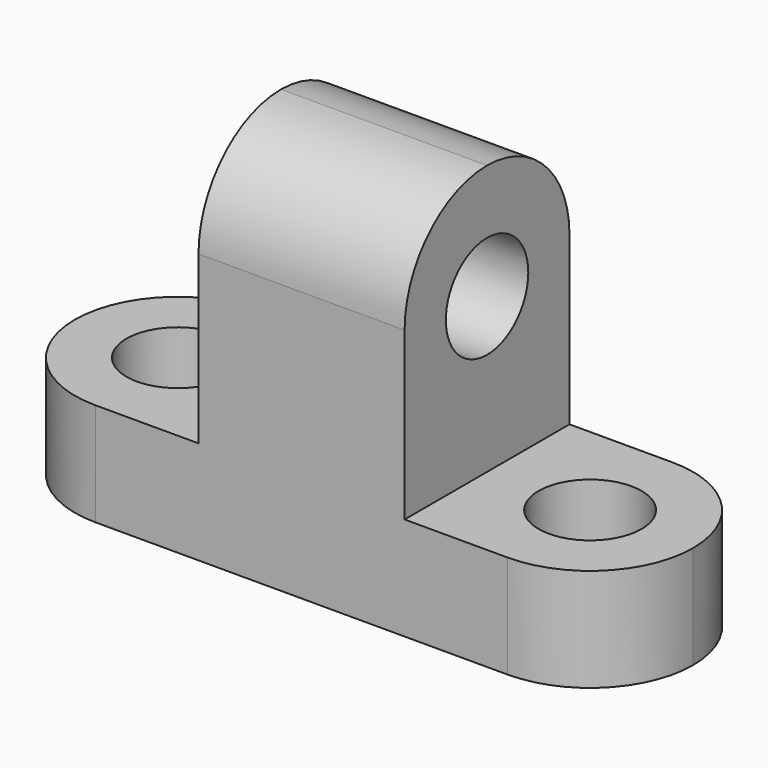
from build123d import *

# Parameters (mm, degrees)
F1_DEPTH = 25.4
F3_R     = 6.35
F2_R     = 6.35
F5_DEPTH = 25.4
F4_R     = 6.35
F6_DEPTH = 25.4


with BuildPart() as f1:
    # F0 (on Front) → F1 (new body)
    with BuildSketch(Plane.XZ):
        Polygon((0, 12.7), (0, 0), (76.2, 0), (76.2, 12.7), (50.8, 12.7), (50.8, 45.939504), (25.4, 45.939504), (25.4, 12.7), align=None)
    extrude(amount=F1_DEPTH)

    # F3 (on face) + F2 (on face) → F5 (cut)
    with BuildSketch(Plane.XY.offset(12.7)):
        with BuildLine():
            ThreePointArc((0, -12.7), (3.719744, -3.719744), (12.7, 0))
            Line((12.7, 0), (0, 0))
            Line((0, 0), (0, -12.7))
        make_face()
        with Locations((12.7, -12.7)):
            Circle(F3_R)
        with BuildLine():
            ThreePointArc((12.7, -25.4), (3.719744, -21.680256), (0, -12.7))
            Line((0, -12.7), (0, -25.4))
            Line((0, -25.4), (12.7, -25.4))
        make_face()
    with BuildSketch(Plane.XY.offset(12.7)):
        with Locations((63.5, -12.7)):
            Circle(F2_R)
        with BuildLine():
            ThreePointArc((63.5, 0), (72.480256, -3.719744), (76.2, -12.7))
            Line((76.2, -12.7), (76.2, 0))
            Line((76.2, 0), (63.5, 0))
        make_face()
        with BuildLine():
            ThreePointArc((76.2, -12.7), (72.480256, -21.680256), (63.5, -25.4))
            Line((63.5, -25.4), (76.2, -25.4))
            Line((76.2, -25.4), (76.2, -12.7))
        make_face()
    extrude(amount=-F5_DEPTH, mode=Mode.SUBTRACT)

    # F4 (on face) → F6 (cut)
    with BuildSketch(Plane.YZ.offset(50.8)):
        with Locations((-12.7, 31.75)):
            Circle(F4_R)
        with BuildLine():
            ThreePointArc((-12.7, 45.939504), (-3.719744, 42.21976), (0, 33.239504))
            Line((0, 33.239504), (0, 45.939504))
            Line((0, 45.939504), (-12.7, 45.939504))
        make_face()
        with BuildLine():
            ThreePointArc((-25.4, 33.239504), (-21.680256, 42.21976), (-12.7, 45.939504))
            Line((-12.7, 45.939504), (-25.4, 45.939504))
            Line((-25.4, 45.939504), (-25.4, 33.239504))
        make_face()
    extrude(amount=-F6_DEPTH, mode=Mode.SUBTRACT)


solid = f1.part
